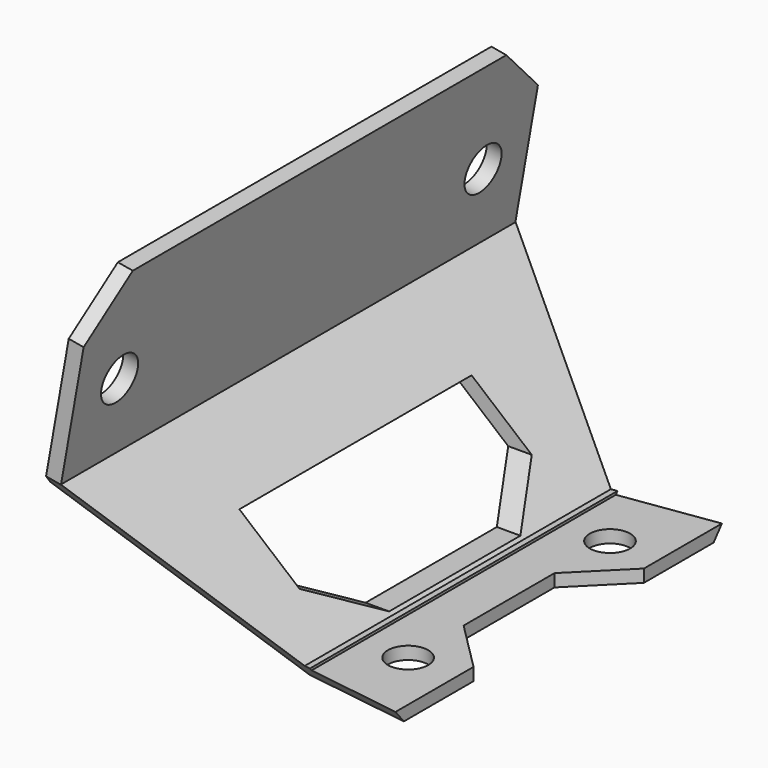
from build123d import *

# Parameters (mm, degrees)
PAD_DEPTH       = 22.5
POCKET_DEPTH    = 29
SKETCH002_R     = 1.6
POCKET001_DEPTH = 5
SKETCH003_R     = 1.8
POCKET002_DEPTH = 5
CHAMFER001_SIZE = 4
POCKET003_DEPTH = 7
SKETCH005_W     = 8
SKETCH005_H     = 36.404098
POCKET004_DEPTH = 0.2


with BuildPart() as part:
    # Sketch → Pad (new body, symmetric)
    with BuildSketch(Plane.XZ):
        Polygon((0, 0), (8.4367642811, 0), (8.4367642811, 1.2), (0.4367642811, 1.2), (-12.998966821, 12.4739170124), (-10.5145511425, 26.563738482), (-11.6963204461, 26.7721162952), (-14.3010431111, 12), align=None)
    extrude(amount=PAD_DEPTH, both=True)

    # Sketch001 (on Face7 of Pad) → Pocket (cut)
    with BuildSketch(Plane(origin=(-15.9219347561, 0, 2.8074666826), x_dir=(-0.1736481777, 0, -0.984807753), z_dir=(-0.984807753, 0, 0.1736481777))):
        Polygon((-10, -22.5), (0, -14.1090036882), (0, -23.5), (-10, -23.5), align=None)
        Polygon((-10, 22.5), (0, 14.1090036882), (0, 23.5), (-10, 23.5), align=None)
    extrude(amount=-POCKET_DEPTH, mode=Mode.SUBTRACT)

    # Sketch002 (on Face7 of Pocket) → Pocket001 (cut)
    with BuildSketch(Plane(origin=(0, 0, 1.2), x_dir=(-1, 0, 0), z_dir=(0, 0, 1))):
        with Locations((-4.5, 10)):
            Circle(SKETCH002_R)
        with Locations((-4.5, -10)):
            Circle(SKETCH002_R)
        Polygon((-9.5, -9.5), (-4.5, -4.5), (-4.5, 4.5), (-9.5, 9.5), align=None)
    extrude(amount=-POCKET001_DEPTH, mode=Mode.SUBTRACT)

    # Sketch003 (on Face13 of Pocket001) → Pocket002 (cut)
    with BuildSketch(Plane(origin=(-15.9219347561, 0, 2.8074666826), x_dir=(-0.1736481777, 0, -0.984807753), z_dir=(-0.984807753, 0, 0.1736481777))):
        with Locations((-16, 18)):
            Circle(SKETCH003_R)
        with Locations((-16, -18)):
            Circle(SKETCH003_R)
    extrude(amount=-POCKET002_DEPTH, mode=Mode.SUBTRACT)

    # Chamfer001
    chamfer001_edges = [part.edges().sort_by_distance(p)[0] for p in [
        (-11.105436, -22.5, 26.667927),
        (-11.105436, 22.5, 26.667927),
    ]]
    chamfer(chamfer001_edges, length=CHAMFER001_SIZE)

    # Sketch004 → Pocket003 (cut, symmetric)
    with BuildSketch(Plane(origin=(-5.5127970494, 0, 0), x_dir=(0, 0, 1), z_dir=(1, 0, 0))):
        Polygon((1.4, 6.5), (1.4, -6.5), (4, -11.5), (8, -11.5), (8, 11.5), (4, 11.5), align=None)
    extrude(amount=POCKET003_DEPTH, both=True, mode=Mode.SUBTRACT)

    # Sketch005 (on Face16 of Pocket003) → Pocket004 (cut)
    with BuildSketch(Plane(origin=(0, 0, 1.2), x_dir=(-1, 0, 0), z_dir=(0, 0, 1))):
        with Locations((-4.90745, 0)):
            Rectangle(SKETCH005_W, SKETCH005_H)
    extrude(amount=-POCKET004_DEPTH, mode=Mode.SUBTRACT)


solid = part.part
